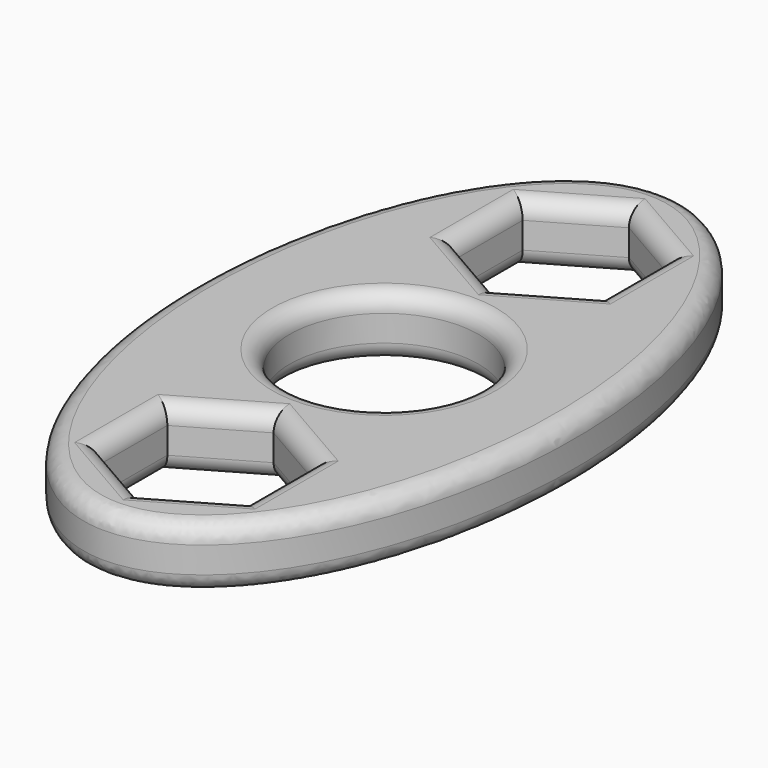
from build123d import *

# Parameters (mm, degrees)
F0_R     = 10.8
F1_DEPTH = 7
F2_R     = 2
F3_R     = 2


with BuildPart() as f1:
    # F0 (on Top) → F1 (new body)
    with BuildSketch(Plane.XY):
        with BuildLine():
            add(Edge.make_bspline(
                [(0, -40), (37.582686, -40), (18.791343, 20), (0, 80), (-18.791343, 20), (-37.582686, -40), (0, -40)],
                knots=[0, 0, 0, 2.094395, 2.094395, 4.18879, 4.18879, 6.283185, 6.283185, 6.283185], degree=2, weights=[1, 0.5, 1, 0.5, 1, 0.5, 1]))
        make_face()
        Polygon((0, -15.8), (8.313844, -20.6), (8.313844, -30.2), (0, -35), (-8.313844, -30.2), (-8.313844, -20.6), align=None, mode=Mode.SUBTRACT)
        Circle(F0_R, mode=Mode.SUBTRACT)
        Polygon((0, 35), (8.313844, 30.2), (8.313844, 20.6), (0, 15.8), (-8.313844, 20.6), (-8.313844, 30.2), align=None, mode=Mode.SUBTRACT)
    extrude(amount=F1_DEPTH)

    # F2
    f2_edges = [f1.edges().sort_by_distance(p)[0] for p in [
        (2e-06, 40, 7),
        (-8.313844, -25.4, 7),
        (-4.156922, -18.2, 7),
        (4.156922, -18.2, 7),
        (8.313844, -25.4, 7),
        (4.156922, -32.6, 7),
        (-4.156922, -32.6, 7),
        (-10.8, 0, 7),
        (-4.156922, 32.6, 7),
        (4.156922, 32.6, 7),
        (8.313844, 25.4, 7),
        (4.156922, 18.2, 7),
        (-4.156922, 18.2, 7),
        (-8.313844, 25.4, 7),
    ]]
    fillet(f2_edges, radius=F2_R)

    # F3
    f3_edges = [f1.edges().sort_by_distance(p)[0] for p in [
        (2e-06, 40, 0),
        (-8.313844, -25.4, 0),
        (-4.156922, -18.2, 0),
        (4.156922, -18.2, 0),
        (8.313844, -25.4, 0),
        (4.156922, -32.6, 0),
        (-4.156922, -32.6, 0),
        (-10.8, 0, 0),
        (-4.156922, 32.6, 0),
        (4.156922, 32.6, 0),
        (8.313844, 25.4, 0),
        (4.156922, 18.2, 0),
        (-4.156922, 18.2, 0),
        (-8.313844, 25.4, 0),
    ]]
    fillet(f3_edges, radius=F3_R)


solid = f1.part
